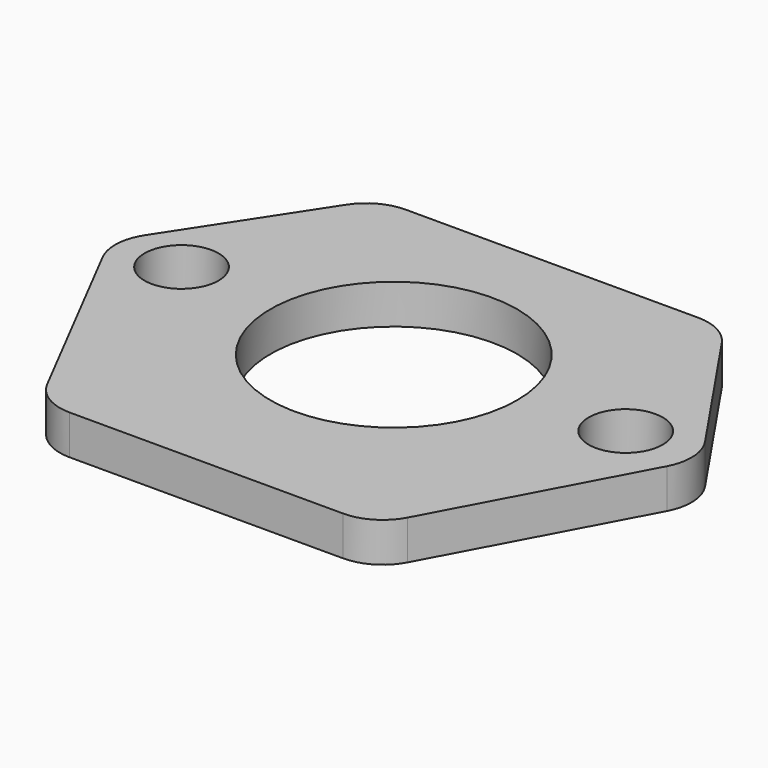
from build123d import *

# Parameters (mm, degrees)
F0_R     = 3
F0_R_2   = 10
F1_DEPTH = 3.2
F2_R     = 4


with BuildPart() as f1:
    # F0 (on Top) → F1 (new body)
    with BuildSketch(Plane.XY):
        Polygon((-23.80692, 1), (-13.5, -19), (13.5, -19), (24.19308, 1), (14, 16), (-14, 16), align=None)
        with Locations((-18, 1)):
            Circle(F0_R, mode=Mode.SUBTRACT)
        Circle(F0_R_2, mode=Mode.SUBTRACT)
        with Locations((18, 1)):
            Circle(F0_R, mode=Mode.SUBTRACT)
    extrude(amount=F1_DEPTH)

    # F2
    f2_edges = [f1.edges().sort_by_distance(p)[0] for p in [
        (-13.5, -19, 1.6),
        (-23.80692, 1, 1.6),
        (13.5, -19, 1.6),
        (24.19308, 1, 1.6),
        (14, 16, 1.6),
        (-14, 16, 1.6),
    ]]
    fillet(f2_edges, radius=F2_R)


solid = f1.part
